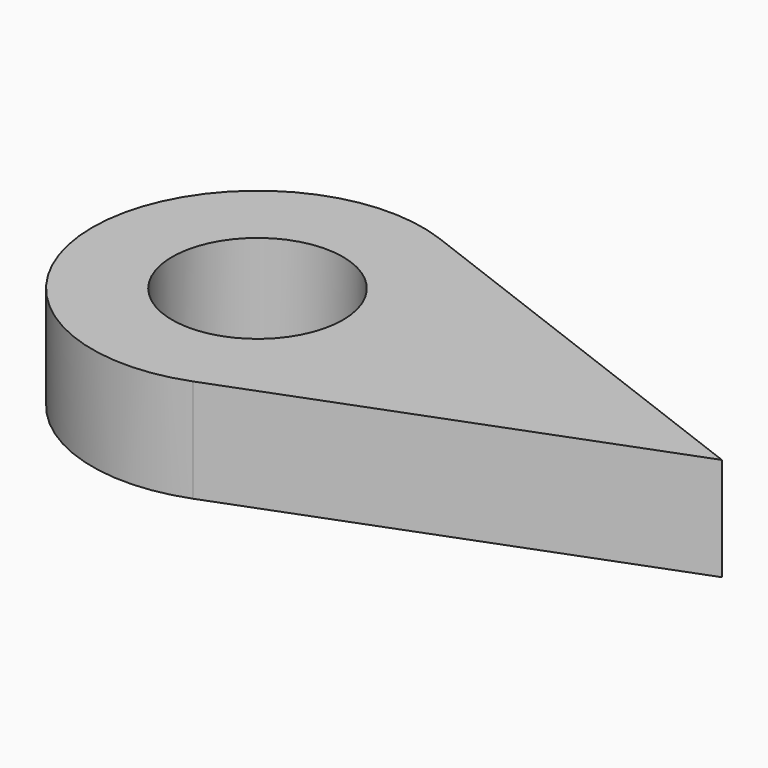
from build123d import *

# Parameters (mm, degrees)
F0_R     = 12.406527
F1_DEPTH = 15


with BuildPart() as f1:
    # F0 (on Top) → F1 (new body)
    with BuildSketch(Plane.XY):
        with BuildLine():
            Line((67.463783, 0), (8.537914, 22.42998))
            ThreePointArc((8.537914, 22.42998), (-24, 0), (8.537914, -22.42998))
            Line((8.537914, -22.42998), (67.463783, 0))
        make_face()
        Circle(F0_R, mode=Mode.SUBTRACT)
    extrude(amount=F1_DEPTH)


solid = f1.part
